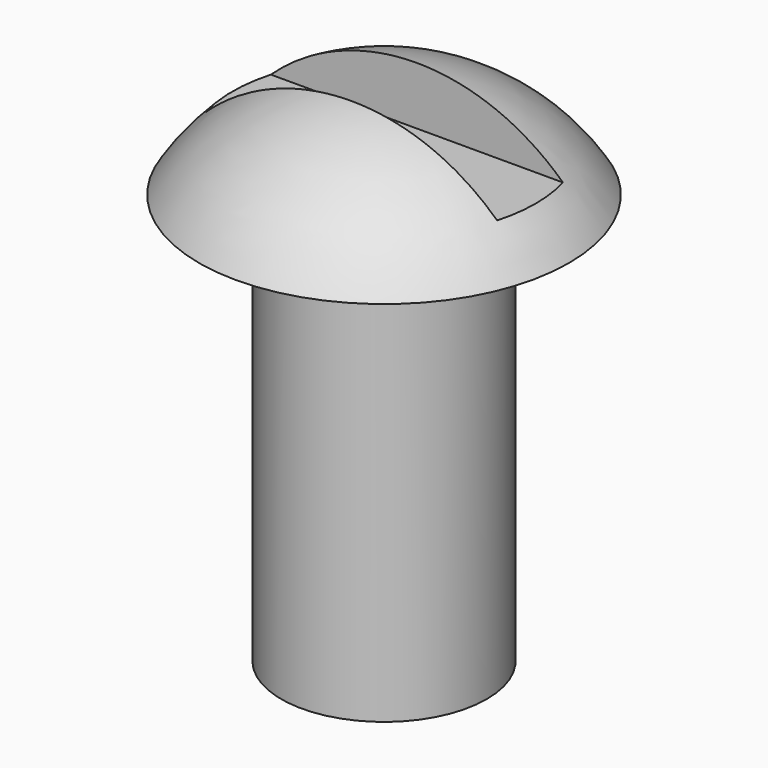
from build123d import *

# Parameters (mm, degrees)
F3_W     = 10.16
F3_H     = 2.54
F4_DEPTH = 6.477


with BuildPart() as f1:
    # F0 (on Front) → F1 (revolve)
    with BuildSketch(Plane.XZ):
        with BuildLine():
            Line((0, 15.875), (0, 0))
            Line((0, 0), (3.175, 0))
            Line((3.175, 0), (3.175, 12.7))
            Line((3.175, 12.7), (5.715, 12.686987))
            ThreePointArc((5.715, 12.686987), (3.272205, 15.024415), (0, 15.875))
        make_face()
    revolve(axis=Axis((0, 0, 7.9375), (0, 0, 1)))

    # F3 (on offset) → F4 (cut)
    with BuildSketch(Plane.XY.offset(13.97)):
        Rectangle(F3_W, F3_H)
    extrude(amount=F4_DEPTH, mode=Mode.SUBTRACT)


solid = f1.part
